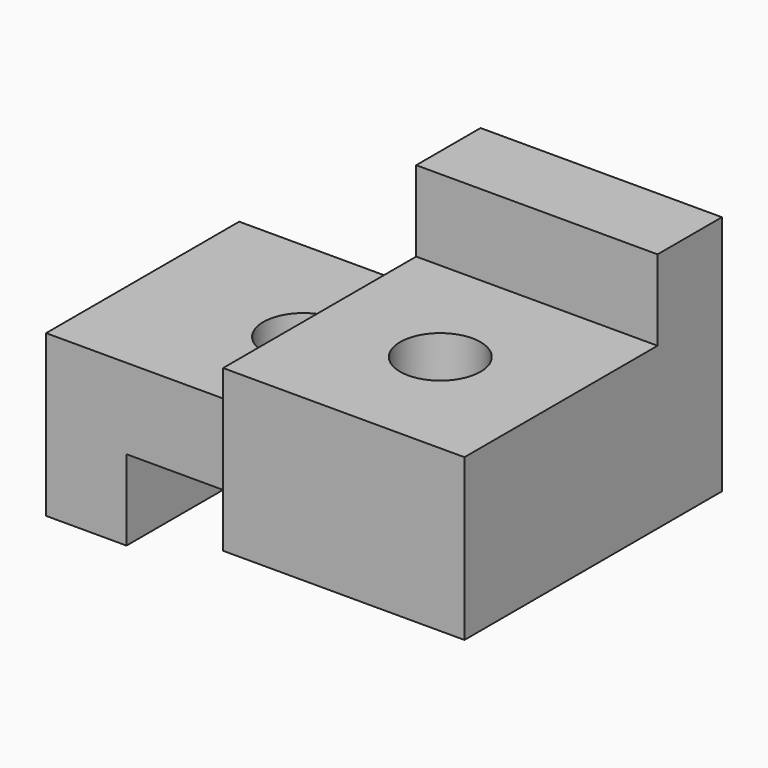
from build123d import *

# Parameters (mm, degrees)
F0_R     = 3.175
F1_DEPTH = 12.7
F0_W     = 19.05
F0_H     = 6.3500014233
F2_DEPTH = 19.05
F3_DEPTH = 6.35
F0_W_2   = 6.35
F0_H_2   = 19.05
F4_DEPTH = 6.35


with BuildPart() as f1:
    # F0 (on Top) → F1 (new body)
    with BuildSketch(Plane.XY):
        Polygon((19.05, 12.6999985767), (19.05, 0), (19.05, -6.35), (38.1, -6.35), (38.1, 12.6999985767), align=None)
        with Locations((28.575, 3.1749985767)):
            Circle(F0_R, mode=Mode.SUBTRACT)
    extrude(amount=F1_DEPTH)

    # F0 (on Top) → F2 (join)
    with BuildSketch(Plane.XY):
        with Locations((28.575, 15.8749992884)):
            Rectangle(F0_W, F0_H)
    extrude(amount=F2_DEPTH)

    # F0 (on Top) → F3 (join)
    with BuildSketch(Plane.XY):
        Polygon((6.35, 19.05), (6.35, 0), (19.05, 0), (19.05, 12.6999985767), (19.05, 19.05), align=None)
        with Locations((12.7, 9.525)):
            Circle(F0_R, mode=Mode.SUBTRACT)
    extrude(amount=F3_DEPTH)

    # F0 (on Top) → F4 (join, symmetric)
    with BuildSketch(Plane.XY):
        with Locations((3.175, 9.525)):
            Rectangle(F0_W_2, F0_H_2)
    extrude(amount=F4_DEPTH, both=True)


solid = f1.part
